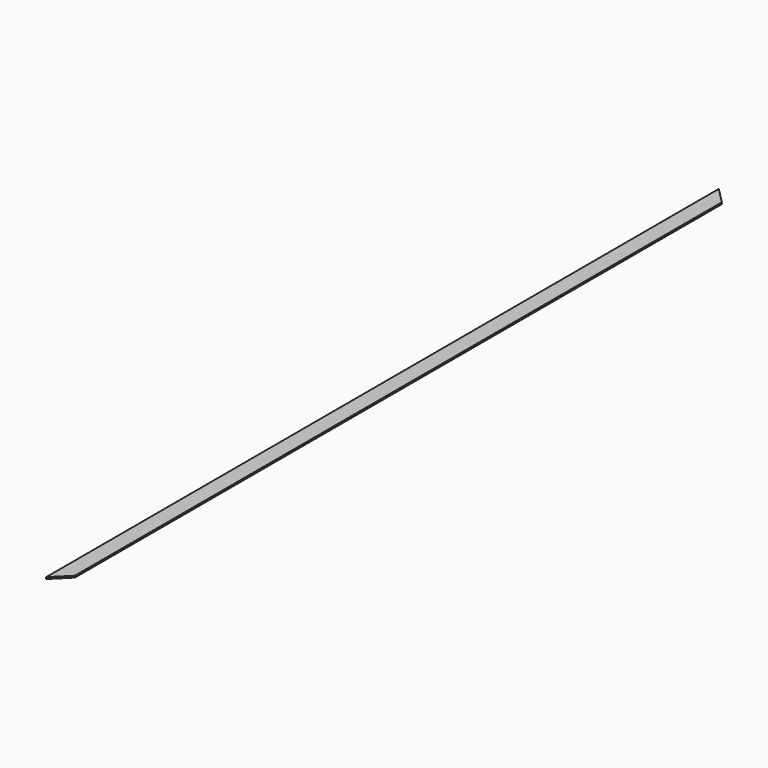
from build123d import *

# Parameters (mm, degrees)
PAD_DEPTH               = 500
POCKET_DEPTH            = 1.001
POCKET001_DEPTH         = 1.001
BODY_PLACEMENT_ANGLE    = 90
PAD001_DEPTH            = 499
POCKET002_DEPTH         = 0.601
BODY001_PLACEMENT_ANGLE = 90


with BuildPart() as cadre_gauche_alu:
    # Sketch001 → Pad (new body)
    with BuildSketch(Plane.XZ):
        Polygon((0, 0), (0, 9.5), (1, 9.5), (1, 0), (0.8, 0), (0.8, 9.3), (0.2, 9.3), (0.2, 0), align=None)
    extrude(amount=PAD_DEPTH)

    # Sketch → Pocket (cut, through all)
    with BuildSketch(Plane.YZ):
        Polygon((0, 0), (0, 9.5), (-9.5, 0), align=None)
    extrude(amount=POCKET_DEPTH, mode=Mode.SUBTRACT)

    # Sketch002 → Pocket001 (cut, through all)
    with BuildSketch(Plane.YZ):
        Polygon((-500, 0), (-490.5, 0), (-500, 9.5), align=None)
    extrude(amount=POCKET001_DEPTH, mode=Mode.SUBTRACT)


with BuildPart() as cadre_gauche_alu_1:
    # Body placement: moved
    add(cadre_gauche_alu.part.rotate(Axis((0, 0, 0), (0, -1, 0)), BODY_PLACEMENT_ANGLE))


with BuildPart() as obj1:
    # Sketch007 → Pad001 (new body)
    with BuildSketch(Plane.XZ.offset(0.5)):
        Polygon((0.6, 9), (0.6, 0), (0.5, 0), (0.5, 8.9), (0.1, 8.9), (0.1, 0), (0, 0), (0, 9), align=None)
    extrude(amount=PAD001_DEPTH)

    # Sketch008 → Pocket002 (cut, through all)
    with BuildSketch(Plane.YZ):
        Polygon((-499.700007, 9.2), (-499.700007, -0.3), (-490.200007, -0.3), align=None)
        Polygon((0.3, -0.3), (-9.2, -0.3), (0.3, 9.2), align=None)
    extrude(amount=POCKET002_DEPTH, mode=Mode.SUBTRACT)


with BuildPart() as obj1_1:
    # Body001 placement: moved
    add(obj1.part.moved(Location((-0.3, -0.3, 0.2))).rotate(Axis((-0.3, -0.3, 0.2), (0, -1, 0)), BODY001_PLACEMENT_ANGLE))


solid = Compound([cadre_gauche_alu_1.part, obj1_1.part])
